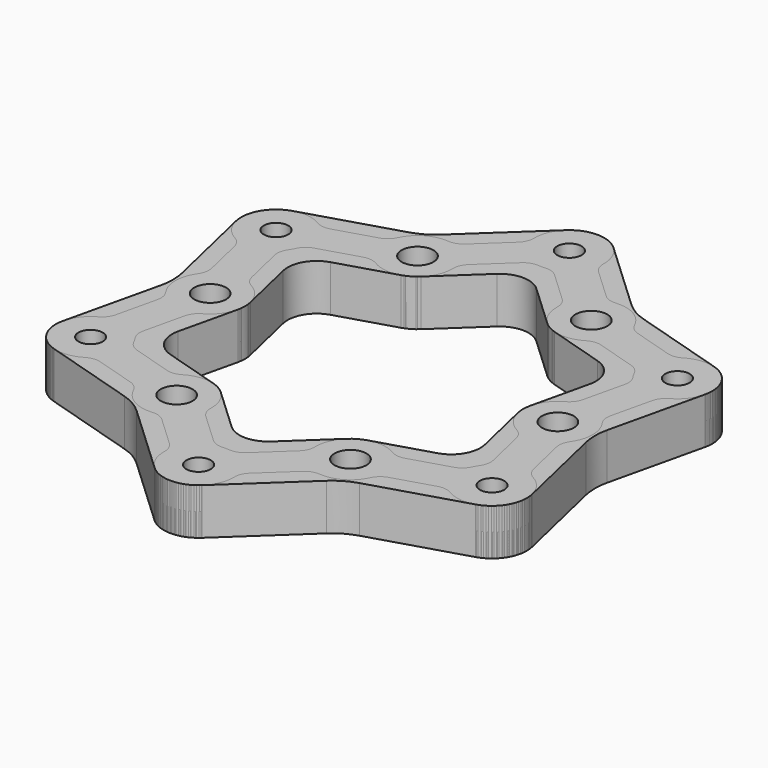
from build123d import *

# Parameters (mm, degrees)
F0_R     = 2.75
F0_R_2   = 2.5
F1_DEPTH = 4
F2_R     = 6
F2_R_2   = 2.75
F3_DEPTH = 3
F4_R     = 2.75
F4_R_2   = 2.1
F5_DEPTH = 8
F6_R     = 2.75
F6_R_2   = 2.1
F7_DEPTH = 8


with BuildPart() as f1:
    # F0 (on Top) → F1 (new body)
    with BuildSketch(Plane.XY):
        with BuildLine():
            ThreePointArc((-4.960803, 43.374972), (-18.032823, 31.233766), (-35.083426, 25.983667))
            ThreePointArc((-35.083426, 25.983667), (-37.830673, 25.081937), (-39.837169, 23))
            ThreePointArc((-39.837169, 23), (-40.636932, 20.221356), (-40.044229, 17.391304))
            ThreePointArc((-40.044229, 17.391304), (-36.065647, 0), (-40.044229, -17.391304))
            ThreePointArc((-40.044229, -17.391304), (-40.636932, -20.221356), (-39.837169, -23))
            ThreePointArc((-39.837169, -23), (-37.830673, -25.081937), (-35.083426, -25.983667))
            ThreePointArc((-35.083426, -25.983667), (-18.032823, -31.233766), (-4.960803, -43.374972))
            ThreePointArc((-4.960803, -43.374972), (-2.806258, -45.303293), (0, -46))
            ThreePointArc((0, -46), (2.806258, -45.303293), (4.960803, -43.374972))
            ThreePointArc((4.960803, -43.374972), (18.032823, -31.233766), (35.083426, -25.983667))
            ThreePointArc((35.083426, -25.983667), (37.830673, -25.081937), (39.837169, -23))
            ThreePointArc((39.837169, -23), (40.636932, -20.221356), (40.044229, -17.391304))
            ThreePointArc((40.044229, -17.391304), (36.065647, 0), (40.044229, 17.391304))
            ThreePointArc((40.044229, 17.391304), (40.636932, 20.221356), (39.837169, 23))
            ThreePointArc((39.837169, 23), (37.830673, 25.081937), (35.083426, 25.983667))
            ThreePointArc((35.083426, 25.983667), (18.032823, 31.233766), (4.960803, 43.374972))
            ThreePointArc((4.960803, 43.374972), (2.806258, 45.303293), (0, 46))
            ThreePointArc((0, 46), (-2.806258, 45.303293), (-4.960803, 43.374972))
        make_face()
        with Locations((-15, -25.980762)):
            Circle(F0_R, mode=Mode.SUBTRACT)
        with Locations((-34.641016, -20)):
            Circle(F0_R_2, mode=Mode.SUBTRACT)
        with Locations((0, -40)):
            Circle(F0_R_2, mode=Mode.SUBTRACT)
        with Locations((15, -25.980762)):
            Circle(F0_R, mode=Mode.SUBTRACT)
        with Locations((34.641016, -20)):
            Circle(F0_R_2, mode=Mode.SUBTRACT)
        with Locations((-30, 0)):
            Circle(F0_R, mode=Mode.SUBTRACT)
        with Locations((-34.641016, 20)):
            Circle(F0_R_2, mode=Mode.SUBTRACT)
        with Locations((-15, 25.980762)):
            Circle(F0_R, mode=Mode.SUBTRACT)
        with BuildLine():
            ThreePointArc((-25.379315, 3.827437), (-26.338429, 15.206499), (-16.004315, 20.065413))
            ThreePointArc((-16.004315, 20.065413), (-13.93934, 20.075256), (-12, 20.78461))
            ThreePointArc((-12, 20.78461), (-10.416012, 22.109451), (-9.375, 23.89285))
            ThreePointArc((-9.375, 23.89285), (0, 30.412998), (9.375, 23.89285))
            ThreePointArc((9.375, 23.89285), (10.416012, 22.109451), (12, 20.78461))
            ThreePointArc((12, 20.78461), (13.93934, 20.075256), (16.004315, 20.065413))
            ThreePointArc((16.004315, 20.065413), (26.338429, 15.206499), (25.379315, 3.827437))
            ThreePointArc((25.379315, 3.827437), (24.355352, 2.034194), (24, 0))
            ThreePointArc((24, 0), (24.355352, -2.034194), (25.379315, -3.827437))
            ThreePointArc((25.379315, -3.827437), (26.338429, -15.206499), (16.004315, -20.065413))
            ThreePointArc((16.004315, -20.065413), (13.93934, -20.075256), (12, -20.78461))
            ThreePointArc((12, -20.78461), (10.416012, -22.109451), (9.375, -23.89285))
            ThreePointArc((9.375, -23.89285), (0, -30.412998), (-9.375, -23.89285))
            ThreePointArc((-9.375, -23.89285), (-10.416012, -22.109451), (-12, -20.78461))
            ThreePointArc((-12, -20.78461), (-13.93934, -20.075256), (-16.004315, -20.065413))
            ThreePointArc((-16.004315, -20.065413), (-26.338429, -15.206499), (-25.379315, -3.827437))
            ThreePointArc((-25.379315, -3.827437), (-24.355352, -2.034194), (-24, 0))
            ThreePointArc((-24, 0), (-24.355352, 2.034194), (-25.379315, 3.827437))
        make_face(mode=Mode.SUBTRACT)
        with Locations((30, 0)):
            Circle(F0_R, mode=Mode.SUBTRACT)
        with Locations((34.641016, 20)):
            Circle(F0_R_2, mode=Mode.SUBTRACT)
        with Locations((15, 25.980762)):
            Circle(F0_R, mode=Mode.SUBTRACT)
        with Locations((0, 40)):
            Circle(F0_R_2, mode=Mode.SUBTRACT)
    extrude(amount=F1_DEPTH)


with BuildPart() as f3:
    # F2 (on Top) → F3 (new body)
    with BuildSketch(Plane.XY):
        with Locations((-30, 0)):
            Circle(F2_R)
        with Locations((-30, 0)):
            Circle(F2_R_2, mode=Mode.SUBTRACT)
    extrude(amount=F3_DEPTH)


with BuildPart() as f5:
    # F4 (on Top) → F5 (new body)
    with BuildSketch(Plane.XY):
        with BuildLine():
            ThreePointArc((4.096913, 44.383526), (0, 46), (-4.096913, 44.383526))
            Line((-4.096913, 44.383526), (-16.384378, 32.899467))
            ThreePointArc((-16.384378, 32.899467), (-18.212566, 31.54509), (-20.299585, 30.639021))
            Line((-20.299585, 30.639021), (-36.388805, 25.739794))
            ThreePointArc((-36.388805, 25.739794), (-39.837169, 23), (-40.485718, 18.643732))
            Line((-40.485718, 18.643732), (-36.683963, 2.260446))
            ThreePointArc((-36.683963, 2.260446), (-36.425133, 0), (-36.683963, -2.260446))
            Line((-36.683963, -2.260446), (-40.485718, -18.643732))
            ThreePointArc((-40.485718, -18.643732), (-39.837169, -23), (-36.388805, -25.739794))
            Line((-36.388805, -25.739794), (-20.299585, -30.639021))
            ThreePointArc((-20.299585, -30.639021), (-18.212566, -31.54509), (-16.384378, -32.899467))
            Line((-16.384378, -32.899467), (-4.096913, -44.383526))
            ThreePointArc((-4.096913, -44.383526), (0, -46), (4.096913, -44.383526))
            Line((4.096913, -44.383526), (16.384378, -32.899467))
            ThreePointArc((16.384378, -32.899467), (18.212566, -31.54509), (20.299585, -30.639021))
            Line((20.299585, -30.639021), (36.388805, -25.739794))
            ThreePointArc((36.388805, -25.739794), (39.837169, -23), (40.485718, -18.643732))
            Line((40.485718, -18.643732), (36.683963, -2.260446))
            ThreePointArc((36.683963, -2.260446), (36.425133, 0), (36.683963, 2.260446))
            Line((36.683963, 2.260446), (40.485718, 18.643732))
            ThreePointArc((40.485718, 18.643732), (39.837169, 23), (36.388805, 25.739794))
            Line((36.388805, 25.739794), (20.299585, 30.639021))
            ThreePointArc((20.299585, 30.639021), (18.212566, 31.54509), (16.384378, 32.899467))
            Line((16.384378, 32.899467), (4.096913, 44.383526))
        make_face()
        with Locations((-15, -25.980762)):
            Circle(F4_R, mode=Mode.SUBTRACT)
        with Locations((-34.641016, -20)):
            Circle(F4_R_2, mode=Mode.SUBTRACT)
        with Locations((0, -40)):
            Circle(F4_R_2, mode=Mode.SUBTRACT)
        with Locations((15, -25.980762)):
            Circle(F4_R, mode=Mode.SUBTRACT)
        with Locations((34.641016, -20)):
            Circle(F4_R_2, mode=Mode.SUBTRACT)
        with Locations((-30, 0)):
            Circle(F4_R, mode=Mode.SUBTRACT)
        with Locations((-34.641016, 20)):
            Circle(F4_R_2, mode=Mode.SUBTRACT)
        with Locations((-15, 25.980762)):
            Circle(F4_R, mode=Mode.SUBTRACT)
        with BuildLine():
            Line((-23.058306, 17.254976), (-13.252211, 20.240968))
            ThreePointArc((-13.252211, 20.240968), (-12, 20.78461), (-10.903087, 21.597236))
            Line((-10.903087, 21.597236), (-3.414094, 28.596567))
            ThreePointArc((-3.414094, 28.596567), (0, 29.943628), (3.414094, 28.596567))
            Line((3.414094, 28.596567), (10.903087, 21.597236))
            ThreePointArc((10.903087, 21.597236), (12, 20.78461), (13.252211, 20.240968))
            Line((13.252211, 20.240968), (23.058306, 17.254976))
            ThreePointArc((23.058306, 17.254976), (25.931943, 14.971814), (26.472401, 11.341591))
            Line((26.472401, 11.341591), (24.155298, 1.356268))
            ThreePointArc((24.155298, 1.356268), (24, 0), (24.155298, -1.356268))
            Line((24.155298, -1.356268), (26.472401, -11.341591))
            ThreePointArc((26.472401, -11.341591), (25.931943, -14.971814), (23.058306, -17.254976))
            Line((23.058306, -17.254976), (13.252211, -20.240968))
            ThreePointArc((13.252211, -20.240968), (12, -20.78461), (10.903087, -21.597236))
            Line((10.903087, -21.597236), (3.414094, -28.596567))
            ThreePointArc((3.414094, -28.596567), (0, -29.943628), (-3.414094, -28.596567))
            Line((-3.414094, -28.596567), (-10.903087, -21.597236))
            ThreePointArc((-10.903087, -21.597236), (-12, -20.78461), (-13.252211, -20.240968))
            Line((-13.252211, -20.240968), (-23.058306, -17.254976))
            ThreePointArc((-23.058306, -17.254976), (-25.931943, -14.971814), (-26.472401, -11.341591))
            Line((-26.472401, -11.341591), (-24.155298, -1.356268))
            ThreePointArc((-24.155298, -1.356268), (-24, 0), (-24.155298, 1.356268))
            Line((-24.155298, 1.356268), (-26.472401, 11.341591))
            ThreePointArc((-26.472401, 11.341591), (-25.931943, 14.971814), (-23.058306, 17.254976))
        make_face(mode=Mode.SUBTRACT)
        with Locations((30, 0)):
            Circle(F4_R, mode=Mode.SUBTRACT)
        with Locations((34.641016, 20)):
            Circle(F4_R_2, mode=Mode.SUBTRACT)
        with Locations((15, 25.980762)):
            Circle(F4_R, mode=Mode.SUBTRACT)
        with Locations((0, 40)):
            Circle(F4_R_2, mode=Mode.SUBTRACT)
    extrude(amount=F5_DEPTH)


with BuildPart() as f7:
    # F6 (on Top) → F7 (new body)
    with BuildSketch(Plane.XY):
        with BuildLine():
            ThreePointArc((-5.998563, 39.868692), (-6.233085, 38.63852), (-6.949388, 37.611275))
            Line((-6.949388, 37.611275), (-12.147525, 32.753013))
            ThreePointArc((-12.147525, 32.753013), (-13.220789, 32.107701), (-14.463988, 31.956772))
            ThreePointArc((-14.463988, 31.956772), (-18, 31.176915), (-20.443382, 28.504567))
            ThreePointArc((-20.443382, 28.504567), (-21.19569, 27.503389), (-22.291179, 26.896572))
            Line((-22.291179, 26.896572), (-29.097626, 24.823984))
            ThreePointArc((-29.097626, 24.823984), (-30.345398, 24.71727), (-31.528019, 25.129254))
            ThreePointArc((-31.528019, 25.129254), (-39.837169, 23), (-37.526582, 14.739438))
            ThreePointArc((-37.526582, 14.739438), (-36.578482, 13.921251), (-36.047014, 12.787291))
            Line((-36.047014, 12.787291), (-34.438704, 5.856441))
            ThreePointArc((-34.438704, 5.856441), (-34.416479, 4.604311), (-34.90737, 3.452205))
            ThreePointArc((-34.90737, 3.452205), (-36, 0), (-34.90737, -3.452205))
            ThreePointArc((-34.90737, -3.452205), (-34.416479, -4.604311), (-34.438704, -5.856441))
            Line((-34.438704, -5.856441), (-36.047014, -12.787291))
            ThreePointArc((-36.047014, -12.787291), (-36.578482, -13.921251), (-37.526582, -14.739438))
            ThreePointArc((-37.526582, -14.739438), (-39.837169, -23), (-31.528019, -25.129254))
            ThreePointArc((-31.528019, -25.129254), (-30.345398, -24.71727), (-29.097626, -24.823984))
            Line((-29.097626, -24.823984), (-22.291179, -26.896572))
            ThreePointArc((-22.291179, -26.896572), (-21.19569, -27.503389), (-20.443382, -28.504567))
            ThreePointArc((-20.443382, -28.504567), (-18, -31.176915), (-14.463988, -31.956772))
            ThreePointArc((-14.463988, -31.956772), (-13.220789, -32.107701), (-12.147525, -32.753013))
            Line((-12.147525, -32.753013), (-6.949388, -37.611275))
            ThreePointArc((-6.949388, -37.611275), (-6.233085, -38.63852), (-5.998563, -39.868692))
            ThreePointArc((-5.998563, -39.868692), (0, -46), (5.998563, -39.868692))
            ThreePointArc((5.998563, -39.868692), (6.233085, -38.63852), (6.949388, -37.611275))
            Line((6.949388, -37.611275), (12.147525, -32.753013))
            ThreePointArc((12.147525, -32.753013), (13.220789, -32.107701), (14.463988, -31.956772))
            ThreePointArc((14.463988, -31.956772), (18, -31.176915), (20.443382, -28.504567))
            ThreePointArc((20.443382, -28.504567), (21.19569, -27.503389), (22.291179, -26.896572))
            Line((22.291179, -26.896572), (29.097626, -24.823984))
            ThreePointArc((29.097626, -24.823984), (30.345398, -24.71727), (31.528019, -25.129254))
            ThreePointArc((31.528019, -25.129254), (39.837169, -23), (37.526582, -14.739438))
            ThreePointArc((37.526582, -14.739438), (36.578482, -13.921251), (36.047014, -12.787291))
            Line((36.047014, -12.787291), (34.438704, -5.856441))
            ThreePointArc((34.438704, -5.856441), (34.416479, -4.604311), (34.90737, -3.452205))
            ThreePointArc((34.90737, -3.452205), (36, 0), (34.90737, 3.452205))
            ThreePointArc((34.90737, 3.452205), (34.416479, 4.604311), (34.438704, 5.856441))
            Line((34.438704, 5.856441), (36.047014, 12.787291))
            ThreePointArc((36.047014, 12.787291), (36.578482, 13.921251), (37.526582, 14.739438))
            ThreePointArc((37.526582, 14.739438), (39.837169, 23), (31.528019, 25.129254))
            ThreePointArc((31.528019, 25.129254), (30.345398, 24.71727), (29.097626, 24.823984))
            Line((29.097626, 24.823984), (22.291179, 26.896572))
            ThreePointArc((22.291179, 26.896572), (21.19569, 27.503389), (20.443382, 28.504567))
            ThreePointArc((20.443382, 28.504567), (18, 31.176915), (14.463988, 31.956772))
            ThreePointArc((14.463988, 31.956772), (13.220789, 32.107701), (12.147525, 32.753013))
            Line((12.147525, 32.753013), (6.949388, 37.611275))
            ThreePointArc((6.949388, 37.611275), (6.233085, 38.63852), (5.998563, 39.868692))
            ThreePointArc((5.998563, 39.868692), (0, 46), (-5.998563, 39.868692))
        make_face()
        with Locations((-15, -25.980762)):
            Circle(F6_R, mode=Mode.SUBTRACT)
        with Locations((-34.641016, -20)):
            Circle(F6_R_2, mode=Mode.SUBTRACT)
        with Locations((0, -40)):
            Circle(F6_R_2, mode=Mode.SUBTRACT)
        with Locations((15, -25.980762)):
            Circle(F6_R, mode=Mode.SUBTRACT)
        with Locations((34.641016, -20)):
            Circle(F6_R_2, mode=Mode.SUBTRACT)
        with Locations((-30, 0)):
            Circle(F6_R, mode=Mode.SUBTRACT)
        with Locations((-34.641016, 20)):
            Circle(F6_R_2, mode=Mode.SUBTRACT)
        with Locations((-15, 25.980762)):
            Circle(F6_R, mode=Mode.SUBTRACT)
        with BuildLine():
            ThreePointArc((-29.197634, 17.476195), (-28.445326, 18.477373), (-27.349837, 19.08419))
            Line((-27.349837, 19.08419), (-20.543391, 21.156778))
            ThreePointArc((-20.543391, 21.156778), (-19.295618, 21.263493), (-18.112998, 20.851508))
            ThreePointArc((-18.112998, 20.851508), (-12, 20.78461), (-9.001437, 26.11207))
            ThreePointArc((-9.001437, 26.11207), (-8.766915, 27.342242), (-8.050612, 28.369487))
            Line((-8.050612, 28.369487), (-2.852475, 33.227749))
            ThreePointArc((-2.852475, 33.227749), (-1.779211, 33.873061), (-0.536012, 34.02399))
            ThreePointArc((-0.536012, 34.02399), (0, 34), (0.536012, 34.02399))
            ThreePointArc((0.536012, 34.02399), (1.779211, 33.873061), (2.852475, 33.227749))
            Line((2.852475, 33.227749), (8.050612, 28.369487))
            ThreePointArc((8.050612, 28.369487), (8.766915, 27.342242), (9.001437, 26.11207))
            ThreePointArc((9.001437, 26.11207), (12, 20.78461), (18.112998, 20.851508))
            ThreePointArc((18.112998, 20.851508), (19.295618, 21.263493), (20.543391, 21.156778))
            Line((20.543391, 21.156778), (27.349837, 19.08419))
            ThreePointArc((27.349837, 19.08419), (28.445326, 18.477373), (29.197634, 17.476195))
            ThreePointArc((29.197634, 17.476195), (29.444864, 17), (29.733646, 16.547795))
            ThreePointArc((29.733646, 16.547795), (30.224537, 15.395689), (30.202312, 14.143559))
            Line((30.202312, 14.143559), (28.594003, 7.212709))
            ThreePointArc((28.594003, 7.212709), (28.062534, 6.078749), (27.114435, 5.260562))
            ThreePointArc((27.114435, 5.260562), (24, 0), (27.114435, -5.260562))
            ThreePointArc((27.114435, -5.260562), (28.062534, -6.078749), (28.594003, -7.212709))
            Line((28.594003, -7.212709), (30.202312, -14.143559))
            ThreePointArc((30.202312, -14.143559), (30.224537, -15.395689), (29.733646, -16.547795))
            ThreePointArc((29.733646, -16.547795), (29.444864, -17), (29.197634, -17.476195))
            ThreePointArc((29.197634, -17.476195), (28.445326, -18.477373), (27.349837, -19.08419))
            Line((27.349837, -19.08419), (20.543391, -21.156778))
            ThreePointArc((20.543391, -21.156778), (19.295618, -21.263493), (18.112998, -20.851508))
            ThreePointArc((18.112998, -20.851508), (12, -20.78461), (9.001437, -26.11207))
            ThreePointArc((9.001437, -26.11207), (8.766915, -27.342242), (8.050612, -28.369487))
            Line((8.050612, -28.369487), (2.852475, -33.227749))
            ThreePointArc((2.852475, -33.227749), (1.779211, -33.873061), (0.536012, -34.02399))
            ThreePointArc((0.536012, -34.02399), (0, -34), (-0.536012, -34.02399))
            ThreePointArc((-0.536012, -34.02399), (-1.779211, -33.873061), (-2.852475, -33.227749))
            Line((-2.852475, -33.227749), (-8.050612, -28.369487))
            ThreePointArc((-8.050612, -28.369487), (-8.766915, -27.342242), (-9.001437, -26.11207))
            ThreePointArc((-9.001437, -26.11207), (-12, -20.78461), (-18.112998, -20.851508))
            ThreePointArc((-18.112998, -20.851508), (-19.295618, -21.263493), (-20.543391, -21.156778))
            Line((-20.543391, -21.156778), (-27.349837, -19.08419))
            ThreePointArc((-27.349837, -19.08419), (-28.445326, -18.477373), (-29.197634, -17.476195))
            ThreePointArc((-29.197634, -17.476195), (-29.444864, -17), (-29.733646, -16.547795))
            ThreePointArc((-29.733646, -16.547795), (-30.224537, -15.395689), (-30.202312, -14.143559))
            Line((-30.202312, -14.143559), (-28.594003, -7.212709))
            ThreePointArc((-28.594003, -7.212709), (-28.062534, -6.078749), (-27.114435, -5.260562))
            ThreePointArc((-27.114435, -5.260562), (-24, 0), (-27.114435, 5.260562))
            ThreePointArc((-27.114435, 5.260562), (-28.062534, 6.078749), (-28.594003, 7.212709))
            Line((-28.594003, 7.212709), (-30.202312, 14.143559))
            ThreePointArc((-30.202312, 14.143559), (-30.224537, 15.395689), (-29.733646, 16.547795))
            ThreePointArc((-29.733646, 16.547795), (-29.444864, 17), (-29.197634, 17.476195))
        make_face(mode=Mode.SUBTRACT)
        with Locations((30, 0)):
            Circle(F6_R, mode=Mode.SUBTRACT)
        with Locations((34.641016, 20)):
            Circle(F6_R_2, mode=Mode.SUBTRACT)
        with Locations((15, 25.980762)):
            Circle(F6_R, mode=Mode.SUBTRACT)
        with Locations((0, 40)):
            Circle(F6_R_2, mode=Mode.SUBTRACT)
    extrude(amount=F7_DEPTH)


solid = Compound([f1.part, f3.part, f5.part, f7.part])
